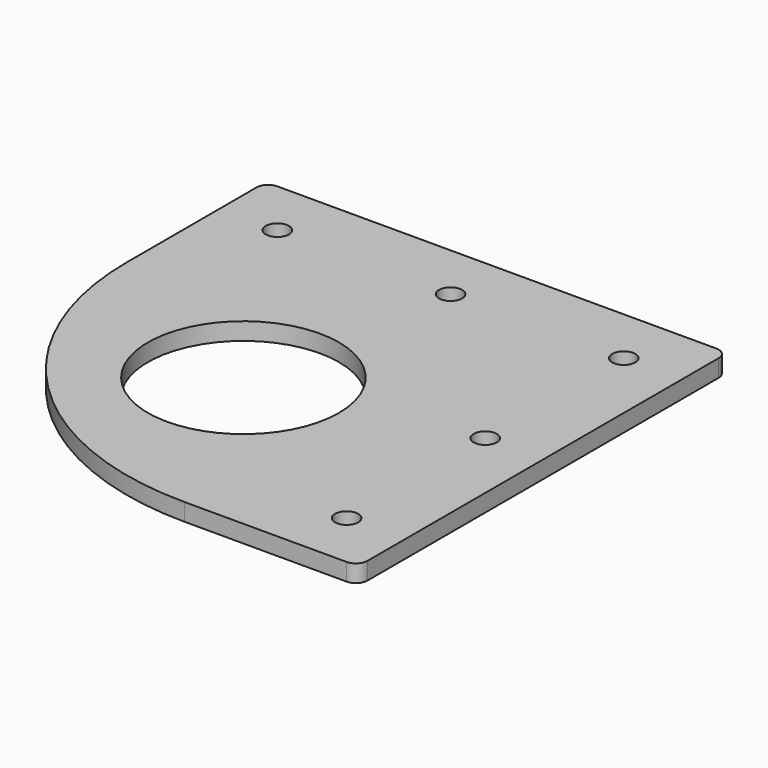
from build123d import *

# Parameters (mm, degrees)
SKETCH_R   = 16.5
SKETCH_R_2 = 2
PAD_DEPTH  = 3
FILLET_R   = 2


with BuildPart() as part:
    # Sketch → Pad (new body)
    with BuildSketch(Plane.XY):
        with BuildLine():
            Line((30, 0), (30, -49.834524))
            Line((30, -49.834524), (0, -49.834524))
            ThreePointArc((-49.834524, 0), (-35.23833, -35.23833), (0, -49.834524))
            Line((-49.834524, 0), (-49.834524, 20))
            Line((-49.834524, 20), (-49.834524, 30))
            Line((-49.834524, 30), (30, 30))
            Line((30, 30), (30, 0))
        make_face()
        with Locations((-16.5, -16.5)):
            Circle(SKETCH_R, mode=Mode.SUBTRACT)
        with Locations((-39.834524, 20)):
            Circle(SKETCH_R_2, mode=Mode.SUBTRACT)
        with Locations((-9.917262, 20)):
            Circle(SKETCH_R_2, mode=Mode.SUBTRACT)
        with Locations((20, 20)):
            Circle(SKETCH_R_2, mode=Mode.SUBTRACT)
        with Locations((20, -9.917262)):
            Circle(SKETCH_R_2, mode=Mode.SUBTRACT)
        with Locations((20, -39.834524)):
            Circle(SKETCH_R_2, mode=Mode.SUBTRACT)
    extrude(amount=PAD_DEPTH)

    # Fillet
    fillet_edges = [part.edges().sort_by_distance(p)[0] for p in [
        (30, -49.834524, 1.5),
        (30, 30, 1.5),
        (-49.834524, 30, 1.5),
    ]]
    fillet(fillet_edges, radius=FILLET_R)


solid = part.part
